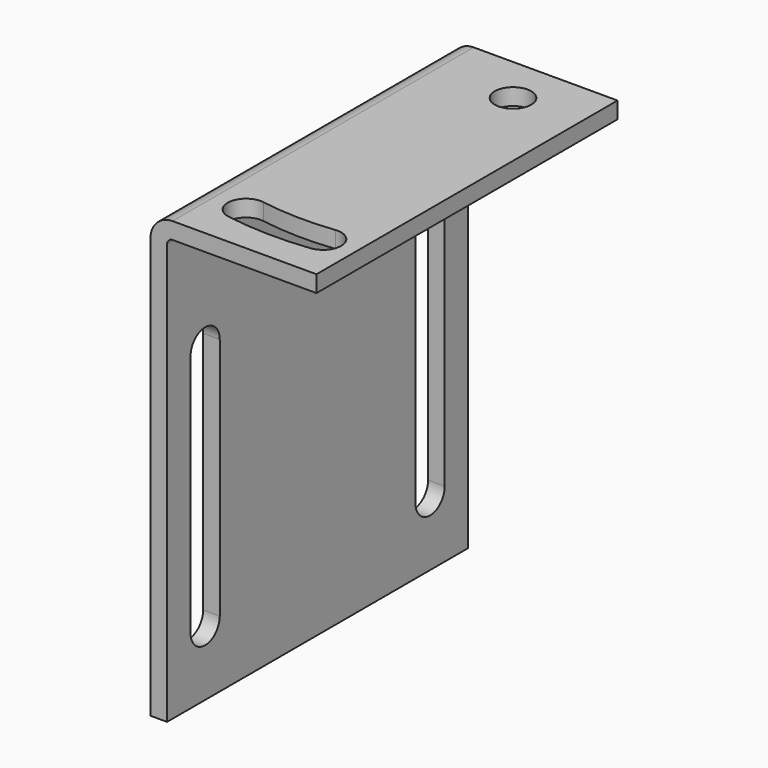
from build123d import *

# Parameters (mm, degrees)
F1_DEPTH = 17
F2_R     = 1.65
F3_DEPTH = 40.001
F5_DEPTH = 15.001


with BuildPart() as f1:
    # F0 (on Front) → F1 (new body, symmetric)
    with BuildSketch(Plane.XZ):
        with BuildLine():
            Line((15, 0), (2, 0))
            ThreePointArc((2, 0), (0.585786, -0.585786), (0, -2))
            Line((0, -2), (0, -40))
            Line((0, -40), (1.5, -40))
            Line((1.5, -40), (1.5, -2))
            ThreePointArc((1.5, -2), (1.646447, -1.646447), (2, -1.5))
            Line((2, -1.5), (15, -1.5))
            Line((15, -1.5), (15, 0))
        make_face()
    extrude(amount=F1_DEPTH, both=True)

    # F2 (on Top) → F3 (cut, through all)
    with BuildSketch(Plane.XY):
        with BuildLine():
            ThreePointArc((12.194882, -14.160663), (13.638451, -12.327331), (11.805118, -10.883762))
            ThreePointArc((11.805118, -10.883762), (8.495594, -11.044643), (5.195887, -10.743362))
            ThreePointArc((5.195887, -10.743362), (3.302904, -12.107773), (4.667315, -14.000755))
            ThreePointArc((4.667315, -14.000755), (8.425508, -14.343899), (12.194882, -14.160663))
        make_face()
        with Locations((9, 12.7)):
            Circle(F2_R)
    extrude(amount=-F3_DEPTH, mode=Mode.SUBTRACT)

    # F4 (on Right) → F5 (cut, through all)
    with BuildSketch(Plane.YZ):
        with BuildLine():
            ThreePointArc((11.05, -34), (12.7, -35.65), (14.35, -34))
            Line((14.35, -34), (14.35, -12))
            ThreePointArc((14.35, -12), (12.7, -10.35), (11.05, -12))
            Line((11.05, -12), (11.05, -34))
        make_face()
        with BuildLine():
            ThreePointArc((-14.35, -34), (-12.7, -35.65), (-11.05, -34))
            Line((-11.05, -34), (-11.05, -12))
            ThreePointArc((-11.05, -12), (-12.7, -10.35), (-14.35, -12))
            Line((-14.35, -12), (-14.35, -34))
        make_face()
    extrude(amount=F5_DEPTH, mode=Mode.SUBTRACT)


solid = f1.part
